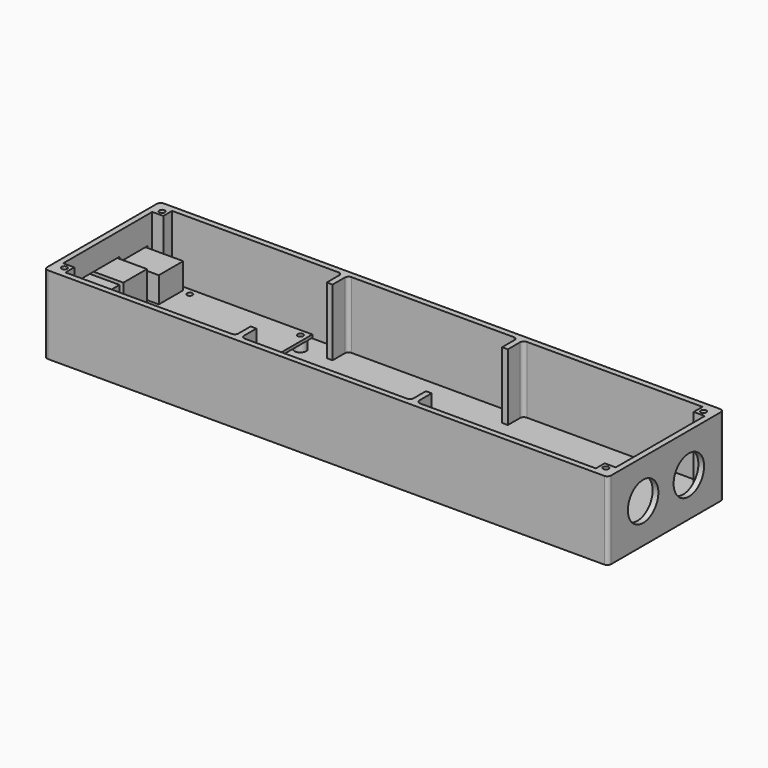
from build123d import *

# Parameters (mm, degrees)
SKETCH_W                = 296
SKETCH_H                = 76
PAD_DEPTH               = 41
POCKET_DEPTH            = 35
POCKET001_DEPTH         = 3
SKETCH008_R             = 3
SKETCH008_R_2           = 1
PAD004_DEPTH            = 5
SKETCH009_R             = 1.5
SKETCH009_R_2           = 2
POCKET002_DEPTH         = 41.001
SKETCH010_R             = 1.45
POCKET003_DEPTH         = 8
FILLET_R                = 2
SKETCH011_R             = 10
POCKET004_DEPTH         = 3
CHAMFER_SIZE            = 1.5
SKETCH012_W             = 3
SKETCH012_H             = 10
PAD005_DEPTH            = 35
FILLET001_R             = 2
SKETCH003_W             = 85
SKETCH003_H             = 56
SKETCH003_R             = 1.45
PAD001_DEPTH            = 1.5
SKETCH004_W             = 21.2
SKETCH004_H             = 16
PAD002_DEPTH            = 13.5
SKETCH007_W             = 17
SKETCH007_H             = 15.5
PAD003_DEPTH            = 16
BODY002_PLACEMENT_ANGLE = 180


with BuildPart() as body:
    # Sketch → Pad (new body)
    with BuildSketch(Plane.XY):
        with Locations((145, 35)):
            Rectangle(SKETCH_W, SKETCH_H)
    extrude(amount=PAD_DEPTH)

    # Sketch001 (on Face6 of Pad) → Pocket (cut)
    with BuildSketch(Plane.XY.offset(41)):
        Polygon((5.8, 70), (284.2, 70), (284.2, 64.2), (290, 64.2), (290, 5.8), (284.2, 5.8), (284.2, 0), (5.8, 0), (5.8, 5.8), (0, 5.8), (0, 64.2), (5.8, 64.2), align=None)
    extrude(amount=-POCKET_DEPTH, mode=Mode.SUBTRACT)

    # Sketch005 (on Face2 of Pocket) → Pocket001 (cut)
    with BuildSketch(Plane(origin=(-3, 0, 0), x_dir=(0, -1, 0), z_dir=(-1, 0, 0))):
        Polygon((-61, 26.5), (-44, 26.5), (-42.5, 29), (-8, 29), (-8, 12), (-61, 12), align=None)
    extrude(amount=-POCKET001_DEPTH, mode=Mode.SUBTRACT)

    # Sketch008 (on Face25 of Pocket001) → Pad004 (join)
    with BuildSketch(Plane.XY.offset(6)):
        with Locations((23.5, 10.5)):
            Circle(SKETCH008_R)
        with Locations((23.5, 10.5)):
            Circle(SKETCH008_R_2, mode=Mode.SUBTRACT)
        with Locations((23.5, 59.5)):
            Circle(SKETCH008_R)
        with Locations((23.5, 59.5)):
            Circle(SKETCH008_R_2, mode=Mode.SUBTRACT)
        with Locations((81.5, 59.5)):
            Circle(SKETCH008_R)
        with Locations((81.5, 59.5)):
            Circle(SKETCH008_R_2, mode=Mode.SUBTRACT)
        with Locations((81.5, 10.5)):
            Circle(SKETCH008_R)
        with Locations((81.5, 10.5)):
            Circle(SKETCH008_R_2, mode=Mode.SUBTRACT)
    extrude(amount=PAD004_DEPTH)

    # Sketch009 → Pocket002 (cut, through all)
    with BuildSketch(Plane.XY):
        with Locations((115, 35)):
            Circle(SKETCH009_R)
        with Locations((154, 35)):
            Circle(SKETCH009_R)
        with Locations((205, 35)):
            Circle(SKETCH009_R_2)
        with Locations((254, 35)):
            Circle(SKETCH009_R_2)
    extrude(amount=POCKET002_DEPTH, mode=Mode.SUBTRACT)

    # Sketch010 (on Face5 of Pocket002) → Pocket003 (cut)
    with BuildSketch(Plane.XY.offset(41)):
        with Locations((2.9, 2.9)):
            Circle(SKETCH010_R)
        with Locations((2.9, 67.1)):
            Circle(SKETCH010_R)
        with Locations((287.1, 2.9)):
            Circle(SKETCH010_R)
        with Locations((287.1, 67.1)):
            Circle(SKETCH010_R)
    extrude(amount=-POCKET003_DEPTH, mode=Mode.SUBTRACT)

    # Fillet
    fillet_edges = [body.edges().sort_by_distance(p)[0] for p in [
        (-3, -3, 20.5),
        (293, -3, 20.5),
        (-3, 73, 20.5),
        (293, 73, 20.5),
    ]]
    fillet(fillet_edges, radius=FILLET_R)

    # Sketch011 (on Face7 of Fillet) → Pocket004 (cut)
    with BuildSketch(Plane.YZ.offset(293)):
        with Locations((20, 20.5)):
            Circle(SKETCH011_R)
        with Locations((50, 20.5)):
            Circle(SKETCH011_R)
    extrude(amount=-POCKET004_DEPTH, mode=Mode.SUBTRACT)

    # Chamfer
    chamfer_edges = [body.edges().sort_by_distance(p)[0] for p in [
        (113.5, 35, 0),
        (152.5, 35, 0),
        (203, 35, 0),
        (252, 35, 0),
    ]]
    chamfer(chamfer_edges, length=CHAMFER_SIZE)

    # Sketch012 (on Face27 of Chamfer) → Pad005 (join)
    with BuildSketch(Plane.XY.offset(6)):
        with Locations((96.5, 5)):
            Rectangle(SKETCH012_W, SKETCH012_H)
        with Locations((188.5, 5)):
            Rectangle(SKETCH012_W, SKETCH012_H)
        with Locations((96.5, 65)):
            Rectangle(SKETCH012_W, SKETCH012_H)
        with Locations((188.5, 65)):
            Rectangle(SKETCH012_W, SKETCH012_H)
    extrude(amount=PAD005_DEPTH)

    # Fillet001
    fillet001_edges = [body.edges().sort_by_distance(p)[0] for p in [
        (95, 0, 23.5),
        (187, 0, 23.5),
        (95, 70, 23.5),
        (187, 70, 23.5),
        (98, 70, 23.5),
        (190, 70, 23.5),
        (98, 0, 23.5),
        (190, 0, 23.5),
    ]]
    fillet(fillet001_edges, radius=FILLET001_R)


with BuildPart() as raspberry_pi002:
    # Sketch003 → Pad001 (new body)
    with BuildSketch(Plane.XY):
        with Locations((42.5, 28)):
            Rectangle(SKETCH003_W, SKETCH003_H)
        with Locations((3.5, 3.5)):
            Circle(SKETCH003_R, mode=Mode.SUBTRACT)
        with Locations((3.5, 52.5)):
            Circle(SKETCH003_R, mode=Mode.SUBTRACT)
        with Locations((61.5, 52.5)):
            Circle(SKETCH003_R, mode=Mode.SUBTRACT)
        with Locations((61.5, 3.5)):
            Circle(SKETCH003_R, mode=Mode.SUBTRACT)
    extrude(amount=-PAD001_DEPTH)

    # Sketch004 → Pad002 (join)
    with BuildSketch(Plane.XY):
        with Locations((76.4, 10.5)):
            Rectangle(SKETCH004_W, SKETCH004_H)
    extrude(amount=PAD002_DEPTH)

    # Sketch007 → Pad003 (join)
    with BuildSketch(Plane.XY):
        with Locations((78.5, 28.75)):
            Rectangle(SKETCH007_W, SKETCH007_H)
        with Locations((78.5, 46.75)):
            Rectangle(SKETCH007_W, SKETCH007_H)
    extrude(amount=PAD003_DEPTH)


with BuildPart() as raspberry_pi002_1:
    # Body002 placement: moved
    add(raspberry_pi002.part.moved(Location((85, 63, 12.5))).rotate(Axis((85, 63, 12.5), (0, 0, 1)), BODY002_PLACEMENT_ANGLE))


solid = Compound([body.part, raspberry_pi002_1.part])
